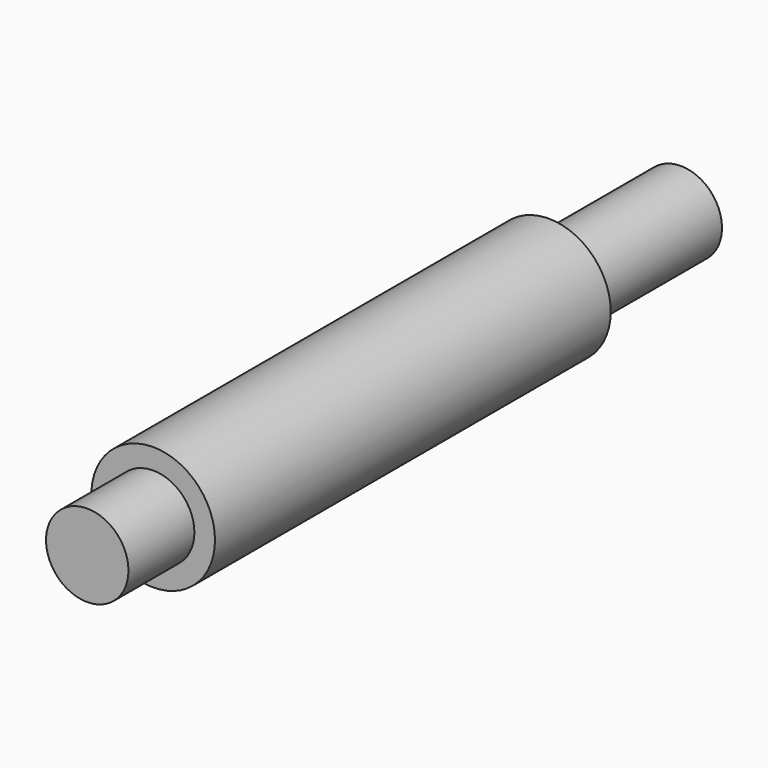
from build123d import *

# Parameters (mm, degrees)
F0_R     = 9.525
F0_R_2   = 6.35
F1_DEPTH = 76.2
F2_R     = 6.35
F3_DEPTH = 12.7
F4_R     = 6.35
F5_DEPTH = 25.4


with BuildPart() as f1:
    # F0 (on Front) → F1 (new body)
    with BuildSketch(Plane.XZ):
        Circle(F0_R)
        Circle(F0_R_2, mode=Mode.SUBTRACT)
        Circle(F0_R_2)
    extrude(amount=F1_DEPTH)

    # F2 (on face) → F3 (join)
    with BuildSketch(Plane.XZ.offset(76.2)):
        Circle(F2_R)
    extrude(amount=F3_DEPTH)

    # F4 (on face) → F5 (join)
    with BuildSketch(Plane(origin=(0, 0, 0), x_dir=(-1, 0, 0), z_dir=(0, 1, 0))):
        Circle(F4_R)
    extrude(amount=F5_DEPTH)


solid = f1.part
